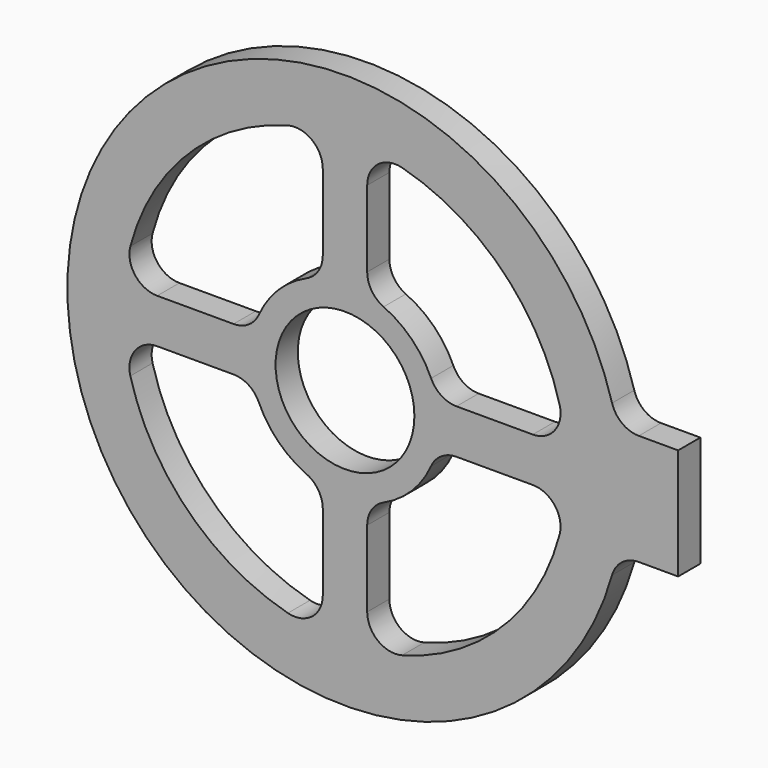
from build123d import *

# Parameters (mm, degrees)
F0_R     = 7.9375
F1_DEPTH = 3.175


with BuildPart() as f1:
    # F0 (on Front) → F1 (new body)
    with BuildSketch(Plane.XZ):
        with BuildLine():
            ThreePointArc((33.601042, 6.35), (31.686445, 6.992226), (30.546402, 8.659091))
            ThreePointArc((30.546402, 8.659091), (-31.75, 0), (30.546402, -8.659091))
            ThreePointArc((30.546402, -8.659091), (31.686445, -6.992226), (33.601042, -6.35))
            Line((33.601042, -6.35), (38.1, -6.35))
            Line((38.1, -6.35), (38.1, 6.35))
            Line((38.1, 6.35), (33.601042, 6.35))
        make_face()
        with BuildLine():
            Line((-21.477649, -2.54), (-12.747536, -2.54))
            ThreePointArc((-12.747536, -2.54), (-11.021742, -3.049994), (-9.850369, -4.416136))
            ThreePointArc((-9.850369, -4.416136), (-7.633218, -7.633218), (-4.416136, -9.850369))
            ThreePointArc((-4.416136, -9.850369), (-3.049994, -11.021742), (-2.54, -12.747536))
            Line((-2.54, -12.747536), (-2.54, -21.477649))
            ThreePointArc((-2.54, -21.477649), (-3.779998, -23.994868), (-6.531429, -24.545884))
            ThreePointArc((-6.531429, -24.545884), (-17.960512, -17.960512), (-24.545884, -6.531429))
            ThreePointArc((-24.545884, -6.531429), (-23.994868, -3.779998), (-21.477649, -2.54))
        make_face(mode=Mode.SUBTRACT)
        with BuildLine():
            ThreePointArc((9.850369, -4.416136), (11.021742, -3.049994), (12.747536, -2.54))
            Line((12.747536, -2.54), (21.477649, -2.54))
            ThreePointArc((21.477649, -2.54), (23.994868, -3.779998), (24.545884, -6.531429))
            ThreePointArc((24.545884, -6.531429), (17.960512, -17.960512), (6.531429, -24.545884))
            ThreePointArc((6.531429, -24.545884), (3.779998, -23.994868), (2.54, -21.477649))
            Line((2.54, -21.477649), (2.54, -12.747536))
            ThreePointArc((2.54, -12.747536), (3.049994, -11.021742), (4.416136, -9.850369))
            ThreePointArc((4.416136, -9.850369), (7.633218, -7.633218), (9.850369, -4.416136))
        make_face(mode=Mode.SUBTRACT)
        Circle(F0_R, mode=Mode.SUBTRACT)
        with BuildLine():
            ThreePointArc((-9.850369, 4.416136), (-11.021742, 3.049994), (-12.747536, 2.54))
            Line((-12.747536, 2.54), (-21.477649, 2.54))
            ThreePointArc((-21.477649, 2.54), (-23.994868, 3.779998), (-24.545884, 6.531429))
            ThreePointArc((-24.545884, 6.531429), (-17.960512, 17.960512), (-6.531429, 24.545884))
            ThreePointArc((-6.531429, 24.545884), (-3.779998, 23.994868), (-2.54, 21.477649))
            Line((-2.54, 21.477649), (-2.54, 12.747536))
            ThreePointArc((-2.54, 12.747536), (-3.049994, 11.021742), (-4.416136, 9.850369))
            ThreePointArc((-4.416136, 9.850369), (-7.633218, 7.633218), (-9.850369, 4.416136))
        make_face(mode=Mode.SUBTRACT)
        with BuildLine():
            ThreePointArc((4.416136, 9.850369), (3.049994, 11.021742), (2.54, 12.747536))
            Line((2.54, 12.747536), (2.54, 21.477649))
            ThreePointArc((2.54, 21.477649), (3.779998, 23.994868), (6.531429, 24.545884))
            ThreePointArc((6.531429, 24.545884), (17.960512, 17.960512), (24.545884, 6.531429))
            ThreePointArc((24.545884, 6.531429), (23.994868, 3.779998), (21.477649, 2.54))
            Line((21.477649, 2.54), (12.747536, 2.54))
            ThreePointArc((12.747536, 2.54), (11.021742, 3.049994), (9.850369, 4.416136))
            ThreePointArc((9.850369, 4.416136), (7.633218, 7.633218), (4.416136, 9.850369))
        make_face(mode=Mode.SUBTRACT)
    extrude(amount=F1_DEPTH)


solid = f1.part
